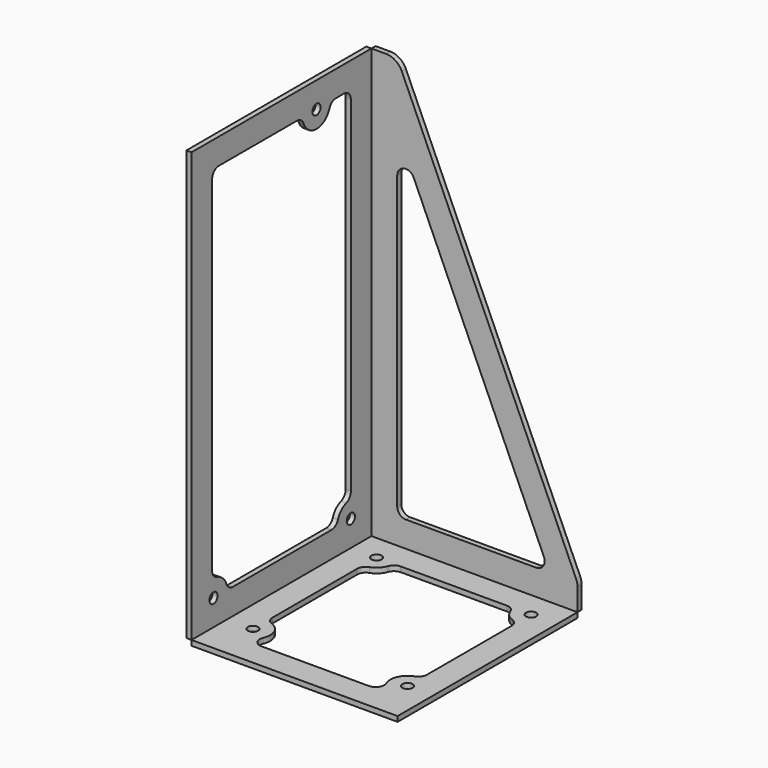
from build123d import *

# Parameters (mm, degrees)
F0_W     = 120
F0_H     = 131
F0_R     = 3
F1_DEPTH = 3
F2_W     = 131
F2_H     = 250
F2_R     = 3
F3_DEPTH = 3
F5_DEPTH = 3


with BuildPart() as f1:
    # F0 (on Top) → F1 (new body)
    with BuildSketch(Plane.XY):
        with Locations((45, 39.5)):
            Rectangle(F0_W, F0_H)
        Circle(F0_R, mode=Mode.SUBTRACT)
        with Locations((90, 0)):
            Circle(F0_R, mode=Mode.SUBTRACT)
        with BuildLine():
            ThreePointArc((0, 75.857864), (0.917517, 78.744616), (3.333333, 80.57191))
            ThreePointArc((3.333333, 80.57191), (7.071068, 82.928932), (9.42809, 86.666667))
            ThreePointArc((9.42809, 86.666667), (11.255384, 89.082483), (14.142136, 90))
            Line((14.142136, 90), (75.857864, 90))
            ThreePointArc((75.857864, 90), (78.744616, 89.082483), (80.57191, 86.666667))
            ThreePointArc((80.57191, 86.666667), (82.928932, 82.928932), (86.666667, 80.57191))
            ThreePointArc((86.666667, 80.57191), (89.082483, 78.744616), (90, 75.857864))
            Line((90, 75.857864), (90, 14.142136))
            ThreePointArc((90, 14.142136), (89.082483, 11.255384), (86.666667, 9.42809))
            ThreePointArc((86.666667, 9.42809), (80.827681, 3.983537), (80.834849, -4))
            ThreePointArc((80.834849, -4), (80.435573, -8.738613), (76.252273, -11))
            Line((76.252273, -11), (13.747727, -11))
            ThreePointArc((13.747727, -11), (9.564427, -8.738613), (9.165151, -4))
            ThreePointArc((9.165151, -4), (9.172319, 3.983537), (3.333333, 9.42809))
            ThreePointArc((3.333333, 9.42809), (0.917517, 11.255384), (0, 14.142136))
            Line((0, 14.142136), (0, 75.857864))
        make_face(mode=Mode.SUBTRACT)
        with Locations((0, 90)):
            Circle(F0_R, mode=Mode.SUBTRACT)
        with Locations((90, 90)):
            Circle(F0_R, mode=Mode.SUBTRACT)
    extrude(amount=F1_DEPTH)


with BuildPart() as f3:
    # F2 (on face) → F3 (new body)
    with BuildSketch(Plane(origin=(-15, 0, 0), x_dir=(0, -1, 0), z_dir=(-1, 0, 0))):
        with Locations((-39.5, 128)):
            Rectangle(F2_W, F2_H)
        with Locations((-90, 18)):
            Circle(F2_R, mode=Mode.SUBTRACT)
        with Locations((10, 18)):
            Circle(F2_R, mode=Mode.SUBTRACT)
        with Locations((-65, 238)):
            Circle(F2_R, mode=Mode.SUBTRACT)
        with BuildLine():
            ThreePointArc((-79.142136, 238), (-76.255384, 237.082483), (-74.42809, 234.666667))
            ThreePointArc((-74.42809, 234.666667), (-65, 228), (-55.57191, 234.666667))
            ThreePointArc((-55.57191, 234.666667), (-53.744616, 237.082483), (-50.857864, 238))
            Line((-50.857864, 238), (6, 238))
            ThreePointArc((6, 238), (9.535534, 236.535534), (11, 233))
            Line((11, 233), (11, 32.456832))
            ThreePointArc((11, 32.456832), (9.979112, 29.429182), (7.333333, 27.637888))
            ThreePointArc((7.333333, 27.637888), (3.180349, 25.313847), (0.57191, 21.333333))
            ThreePointArc((0.57191, 21.333333), (-1.255384, 18.917517), (-4.142136, 18))
            Line((-4.142136, 18), (-75.857864, 18))
            ThreePointArc((-75.857864, 18), (-78.744616, 18.917517), (-80.57191, 21.333333))
            ThreePointArc((-80.57191, 21.333333), (-82.928932, 25.071068), (-86.666667, 27.42809))
            ThreePointArc((-86.666667, 27.42809), (-89.082483, 29.255384), (-90, 32.142136))
            Line((-90, 32.142136), (-90, 233))
            ThreePointArc((-90, 233), (-88.535534, 236.535534), (-85, 238))
            Line((-85, 238), (-79.142136, 238))
        make_face(mode=Mode.SUBTRACT)
    extrude(amount=F3_DEPTH)


with BuildPart() as f5:
    # F4 (on face) → F5 (new body)
    with BuildSketch(Plane(origin=(0, 105, 0), x_dir=(-1, 0, 0), z_dir=(0, 1, 0))):
        with BuildLine():
            Line((-105, 3), (15, 3))
            Line((15, 3), (15, 253))
            Line((15, 253), (6.484713, 253))
            ThreePointArc((6.484713, 253), (1.043849, 251.390292), (-2.645374, 247.079401))
            Line((-2.645374, 247.079401), (-104.130087, 19.946948))
            ThreePointArc((-104.130087, 19.946948), (-104.780104, 17.953108), (-105, 15.867547))
            Line((-105, 15.867547), (-105, 3))
        make_face()
        with BuildLine():
            ThreePointArc((-9.565044, 194.822414), (-3.95722, 197.672766), (0, 192.782714))
            Line((0, 192.782714), (0, 23))
            ThreePointArc((0, 23), (-1.464466, 19.464466), (-5, 18))
            Line((-5, 18), (-80.860361, 18))
            ThreePointArc((-80.860361, 18), (-85.055507, 20.279568), (-85.425405, 25.0397))
            Line((-85.425405, 25.0397), (-9.565044, 194.822414))
        make_face(mode=Mode.SUBTRACT)
    extrude(amount=F5_DEPTH)


solid = Compound([f1.part, f3.part, f5.part])
